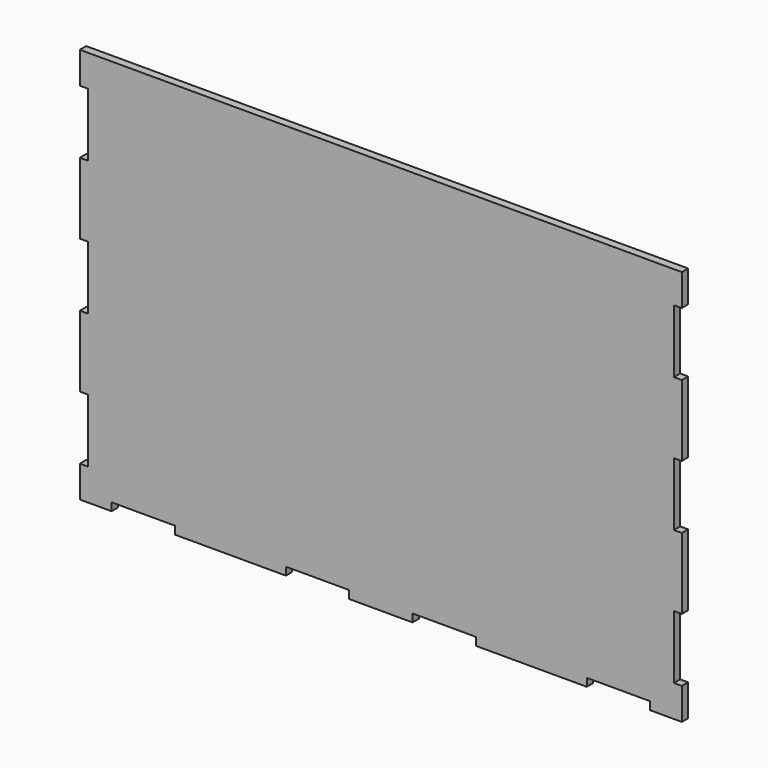
from build123d import *

# Parameters (mm, degrees)
F1_DEPTH = 3.175


with BuildPart() as f1:
    # F0 (on Front) → F1 (new body)
    with BuildSketch(Plane.XZ):
        Polygon((107.95, -79.375), (120.65, -79.375), (120.65, -66.675), (117.475, -66.675), (117.475, -41.275), (120.65, -41.275), (120.65, -12.7), (117.475, -12.7), (117.475, 0), (117.475, 12.7), (120.65, 12.7), (120.65, 41.275), (117.475, 41.275), (117.475, 66.675), (120.65, 66.675), (120.65, 79.375), (-120.65, 79.375), (-120.65, 66.675), (-117.475, 66.675), (-117.475, 41.275), (-120.65, 41.275), (-120.65, 12.7), (-117.475, 12.7), (-117.475, 0), (-117.475, -12.7), (-120.65, -12.7), (-120.65, -41.275), (-117.475, -41.275), (-117.475, -66.675), (-120.65, -66.675), (-120.65, -79.375), (-107.95, -79.375), (-107.95, -76.2), (-82.55, -76.2), (-82.55, -79.375), (-38.1, -79.375), (-38.1, -76.2), (-12.7, -76.2), (-12.7, -79.375), (12.7, -79.375), (12.7, -76.2), (38.1, -76.2), (38.1, -79.375), (82.55, -79.375), (82.55, -76.2), (107.95, -76.2), align=None)
    extrude(amount=F1_DEPTH)


solid = f1.part
